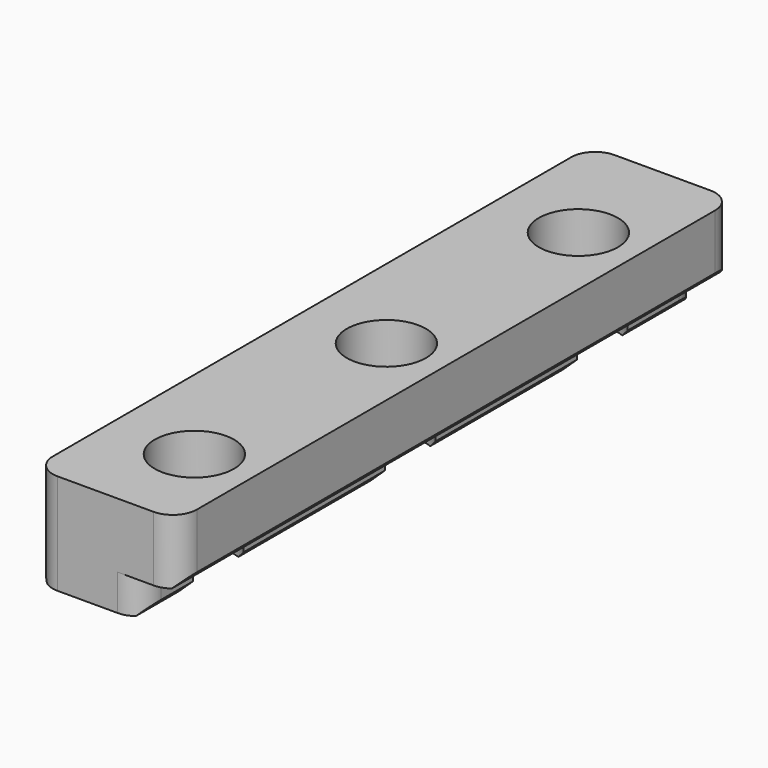
from build123d import *

# Parameters (mm, degrees)
SKETCH_W        = 6
SKETCH_H        = 29
SKETCH_R        = 1.65
PAD_DEPTH       = 2.7
SKETCH001_W     = 4.5
SKETCH001_H     = 29
PAD001_DEPTH    = 1.5
SKETCH002_R     = 1.65
POCKET_DEPTH    = 5.701
CHAMFER_SIZE    = 0.4
CHAMFER001_SIZE = 0.4
FILLET_R        = 1
FILLET001_R     = 1


with BuildPart() as part:
    # Sketch → Pad (new body)
    with BuildSketch(Plane.XY):
        with Locations((-0.5, -9.5)):
            Rectangle(SKETCH_W, SKETCH_H)
        Circle(SKETCH_R, mode=Mode.SUBTRACT)
        with Locations((0, -10)):
            Circle(SKETCH_R, mode=Mode.SUBTRACT)
        with Locations((0, -20)):
            Circle(SKETCH_R, mode=Mode.SUBTRACT)
    extrude(amount=PAD_DEPTH)

    # Sketch001 (on Face8 of Pad) → Pad001 (join)
    with BuildSketch(Plane(origin=(0, 0, 0), x_dir=(1, 0, 0), z_dir=(0, 0, -1))):
        with Locations((-1.25, 9.5)):
            Rectangle(SKETCH001_W, SKETCH001_H)
    extrude(amount=PAD001_DEPTH)

    # Sketch002 → Pocket (cut, through all)
    with BuildSketch(Plane.XY.offset(4.2)):
        Circle(SKETCH002_R)
        with Locations((0, -10)):
            Circle(SKETCH002_R)
        with Locations((0, -20)):
            Circle(SKETCH002_R)
    extrude(amount=-POCKET_DEPTH, mode=Mode.SUBTRACT)

    # Chamfer
    chamfer_edges = [part.edges().sort_by_distance(p)[0] for p in [
        (2.5, -9.5, 0),
        (1, 3.15622, -1.5),
        (1, -5, -1.5),
        (1, -15, -1.5),
        (1, -22.65622, -1.5),
    ]]
    chamfer(chamfer_edges, length=CHAMFER_SIZE)

    # Chamfer001
    chamfer001_edges = [part.edges().sort_by_distance(p)[0] for p in [
        (-3.5, -9.5, -1.5),
    ]]
    chamfer(chamfer001_edges, length=CHAMFER001_SIZE)

    # Fillet
    fillet_edges = [part.edges().sort_by_distance(p)[0] for p in [
        (2.5, 5, 1.55),
        (1, 5, -0.55),
        (-3.5, 5, -0.55),
        (-3.5, 5, 1.35),
    ]]
    fillet(fillet_edges, radius=FILLET_R)

    # Fillet001
    fillet001_edges = [part.edges().sort_by_distance(p)[0] for p in [
        (2.5, -24, 1.55),
        (1, -24, -0.55),
        (-3.5, -24, -0.55),
        (-3.5, -24, 1.35),
    ]]
    fillet(fillet001_edges, radius=FILLET001_R)


solid = part.part
